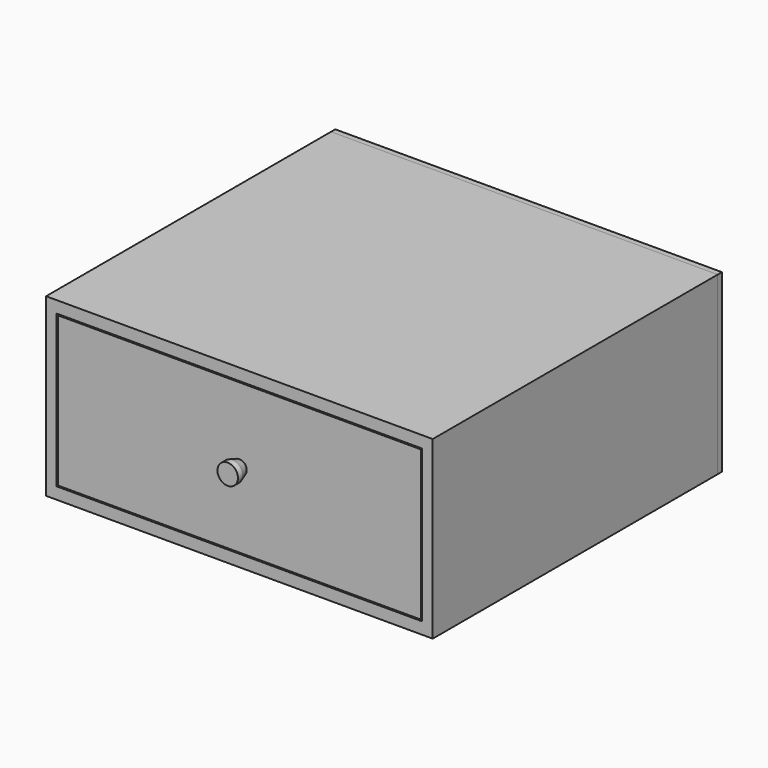
from build123d import *

# Parameters (mm, degrees)
F0_W      = 660
F0_H      = 300
F0_W_2    = 624
F0_H_2    = 259.677094
F1_DEPTH  = 608
F2_W      = 660
F2_H      = 300
F3_DEPTH  = 9
F4_W      = 620
F4_H      = 255.677094
F5_DEPTH  = 18
F6_W      = 595
F6_H      = 189.362255
F7_DEPTH  = 550
F8_T      = -18
F9_R      = 17.5
F10_DEPTH = 25
F11_SIZE2 = 5
F11_SIZE  = 15


with BuildPart() as f1:
    # F0 (on Front) → F1 (new body)
    with BuildSketch(Plane.XZ):
        with Locations((3.151048, 78.456648)):
            Rectangle(F0_W, F0_H)
        with Locations((3.151048, 78.456648)):
            Rectangle(F0_W_2, F0_H_2, mode=Mode.SUBTRACT)
    extrude(amount=F1_DEPTH)


with BuildPart() as f3:
    # F2 (on face) → F3 (new body)
    with BuildSketch(Plane(origin=(0, 0, 0), x_dir=(-1, 0, 0), z_dir=(0, 1, 0))):
        with Locations((-3.151048, 78.456648)):
            Rectangle(F2_W, F2_H)
    extrude(amount=F3_DEPTH)


with BuildPart() as f5:
    # F4 (on face) → F5 (new body)
    with BuildSketch(Plane.XZ.offset(608)):
        with Locations((3.151048, 78.456648)):
            Rectangle(F4_W, F4_H)
    extrude(amount=-F5_DEPTH)


with BuildPart() as f7:
    # F6 (on face) → F7 (new body)
    with BuildSketch(Plane(origin=(0, -590, 0), x_dir=(-1, 0, 0), z_dir=(0, 1, 0))):
        with Locations((-3.151048, 65.299228)):
            Rectangle(F6_W, F6_H)
    extrude(amount=F7_DEPTH)

    # F8
    f8_openings = [f7.faces().sort_by_distance(p)[0] for p in [
        (3.151048, -315, 159.980356),
    ]]
    offset(amount=F8_T, openings=f8_openings)


with BuildPart() as f10:
    # F9 (on face) → F10 (new body)
    with BuildSketch(Plane.XZ.offset(608)):
        with Locations((3.151048, 78.456648)):
            Circle(F9_R)
    extrude(amount=F10_DEPTH)

    # F11
    f11_edges = [f10.edges().sort_by_distance(p)[0] for p in [
        (-14.348952, -608, 78.456648),
    ]]
    chamfer(f11_edges, length=F11_SIZE, length2=F11_SIZE2)


solid = Compound([f1.part, f3.part, f5.part, f7.part, f10.part])
